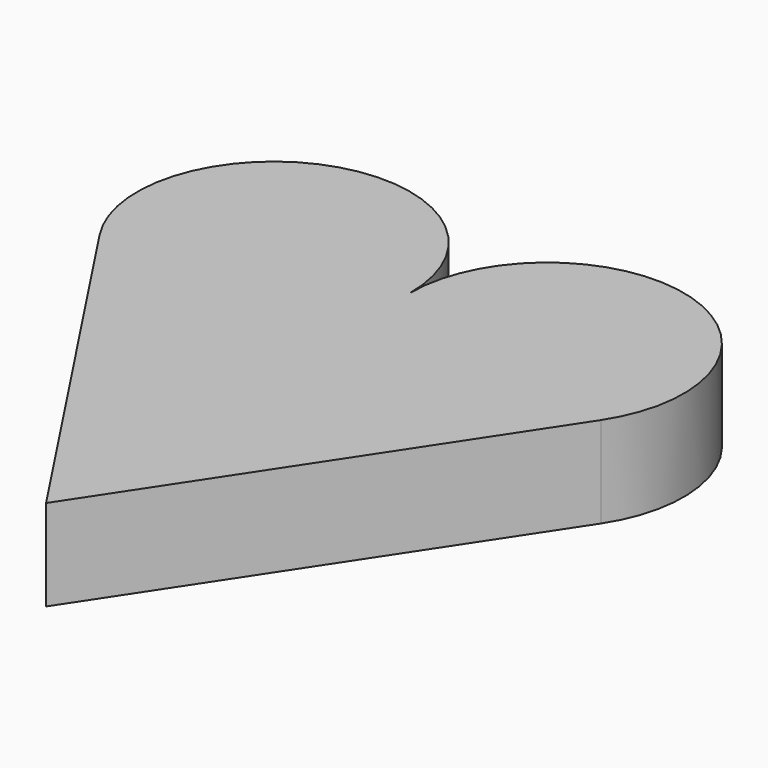
from build123d import *

# Parameters (mm, degrees)
F1_DEPTH = 25.4
F2_SCALE = 2


with BuildPart() as f1:
    # F0 (on Top) → F1 (new body)
    with BuildSketch(Plane.XY):
        with BuildLine():
            ThreePointArc((69.9082568807, 0), (49.0479544401, 57.4656585311), (0, 20.9724770642))
            ThreePointArc((0, 20.9724770642), (-49.0479544401, 57.4656585311), (-69.9082568807, 0))
            Line((-69.9082568807, 0), (0, -106.0275229358))
            Line((0, -106.0275229358), (69.9082568807, 0))
        make_face()
    extrude(amount=F1_DEPTH)


with BuildPart() as f1_1:
    # F2: moved
    add(f1.part.scale(F2_SCALE))


solid = f1_1.part
